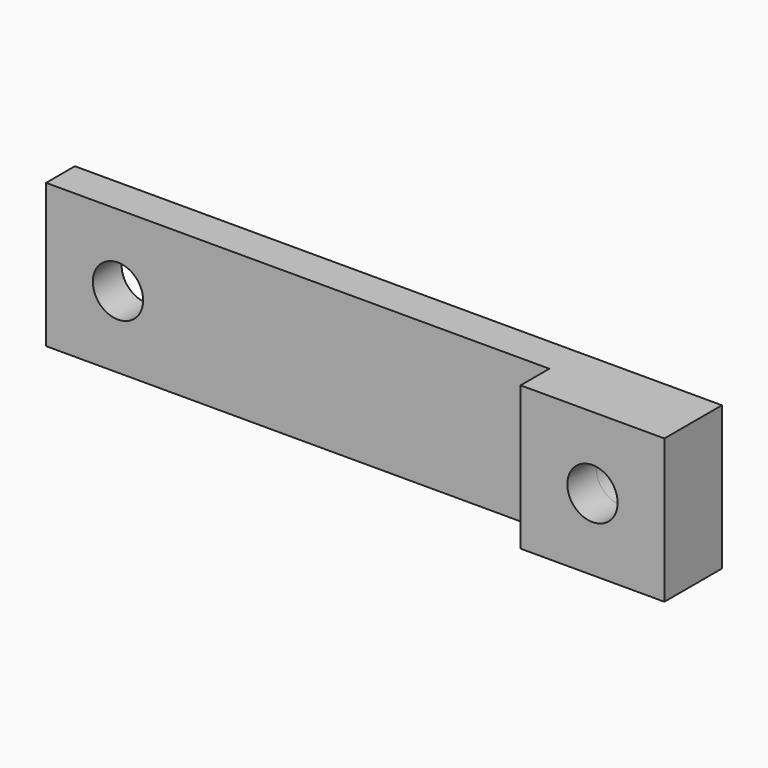
from build123d import *

# Parameters (mm, degrees)
F0_W     = 10
F0_H     = 40
F1_DEPTH = 180
F2_R     = 7
F3_DEPTH = 10.001
F4_W     = 40
F4_H     = 40
F4_R     = 7
F5_DEPTH = 10


with BuildPart() as f1:
    # F0 (on Right) → F1 (new body)
    with BuildSketch(Plane.YZ):
        Rectangle(F0_W, F0_H)
    extrude(amount=-F1_DEPTH)

    # F2 (on face) → F3 (cut, through all)
    with BuildSketch(Plane.XZ.offset(5)):
        with Locations((-160, 0)):
            Circle(F2_R)
        with Locations((-20, 0)):
            Circle(F2_R)
    extrude(amount=-F3_DEPTH, mode=Mode.SUBTRACT)

    # F4 (on face) → F5 (join)
    with BuildSketch(Plane.XZ.offset(5)):
        with Locations((-20, 0)):
            Rectangle(F4_W, F4_H)
        with Locations((-20, 0)):
            Circle(F4_R, mode=Mode.SUBTRACT)
    extrude(amount=F5_DEPTH)


solid = f1.part
